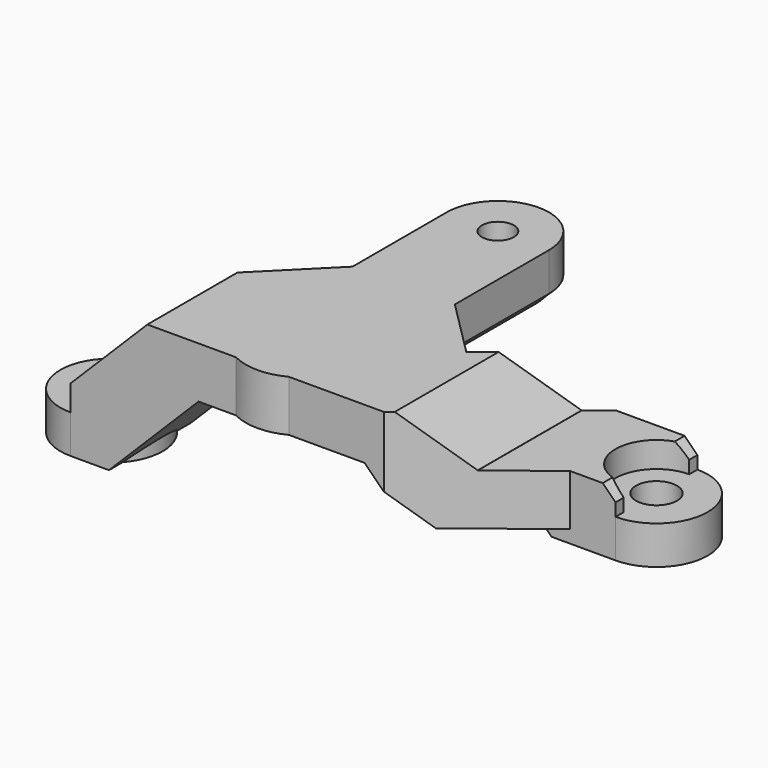
from build123d import *

# Parameters (mm, degrees)
CYLINDER778_R                     = 1.25
CYLINDER778_DEPTH                 = 5
CYLINDER796_R                     = 4
CYLINDER796_DEPTH                 = 4
BOX526_W                          = 10
BOX526_H                          = 10
BOX526_DEPTH                      = 10
CYLINDER028_R                     = 1.6
CYLINDER028_DEPTH                 = 4
CYLINDER027_R                     = 4
CYLINDER027_DEPTH                 = 4
BOX037_W                          = 10
BOX037_H                          = 10
BOX037_DEPTH                      = 10
CYLINDER776_R                     = 1.6
CYLINDER776_DEPTH                 = 10
BOX509_W                          = 6
BOX509_H                          = 8
BOX509_DEPTH                      = 1
CYLINDER026_R                     = 3.2
CYLINDER026_DEPTH                 = 10
BOX035_W                          = 10
BOX035_H                          = 15
BOX035_DEPTH                      = 10
CYLINDER025_R                     = 1.6
CYLINDER025_DEPTH                 = 10
CYLINDER775_R                     = 1.6
CYLINDER775_DEPTH                 = 10
BOX033_W                          = 10
BOX033_H                          = 10
BOX033_DEPTH                      = 8
BOX033_PLACEMENT_ANGLE            = 45
CYLINDER024_R                     = 3.2
CYLINDER024_DEPTH                 = 10
BOX032_W                          = 10
BOX032_H                          = 8
BOX032_DEPTH                      = 11
CHAMFER082_SIZE                   = 7
CHAMFER083_SIZE                   = 6
CYLINDER774_R                     = 3.2
CYLINDER774_DEPTH                 = 2
BOX507_W                          = 8
BOX507_H                          = 27
BOX507_DEPTH                      = 4
BOX029_W                          = 10
BOX029_H                          = 10
BOX029_DEPTH                      = 4
BOX028_W                          = 14
BOX028_H                          = 14
BOX028_DEPTH                      = 4
BOX028_PLACEMENT_ANGLE            = 45
BOX027_W                          = 10
BOX027_H                          = 10
BOX027_DEPTH                      = 4
BOX026_W                          = 10
BOX026_H                          = 10
BOX026_DEPTH                      = 4
BOX024_W                          = 15
BOX024_H                          = 8
BOX024_DEPTH                      = 4
BOX024_PLACEMENT_ANGLE            = -38
BOX025_W                          = 9
BOX025_H                          = 8
BOX025_DEPTH                      = 4
BOX023_W                          = 6
BOX023_H                          = 8
BOX023_DEPTH                      = 4
CYLINDER773_R                     = 4
CYLINDER773_DEPTH                 = 4
CYLINDER772_R                     = 4.5
CYLINDER772_DEPTH                 = 4
BOX508_W                          = 11
BOX508_H                          = 8
BOX508_DEPTH                      = 4
CHAMFER084_SIZE                   = 2
CYLINDER770_R                     = 4
CYLINDER770_DEPTH                 = 3
CHAMFER086_SIZE                   = 3.99
BOX034_W                          = 10
BOX034_H                          = 11
BOX034_DEPTH                      = 10
CHAMFER085_SIZE                   = 3.99
CYLINDER771_R                     = 4
CYLINDER771_DEPTH                 = 3
CHAMFER087_SIZE                   = 1
CHAMFER088_SIZE                   = 0.99
CHAMFER089_SIZE                   = 1
PART_MIRRORING096_PLACEMENT_ANGLE = 180
CHAMFER099_SIZE                   = 1


with BuildPart() as cylinder984:
    # Cylinder778 → Cylinder778 (new body)
    with BuildSketch(Plane(origin=(348, 37, -43), x_dir=(1, 0, 0), z_dir=(0, 0, 1))):
        Circle(CYLINDER778_R)
    extrude(amount=CYLINDER778_DEPTH)


with BuildPart() as cylinder987:
    # Cylinder796 → Cylinder796 (new body)
    with BuildSketch(Plane(origin=(348, 37, -43), x_dir=(1, 0, 0), z_dir=(0, 0, 1))):
        Circle(CYLINDER796_R)
    extrude(amount=CYLINDER796_DEPTH)


with BuildPart() as cube726:
    # Box526 → Box526 (new body)
    with BuildSketch(Plane(origin=(343, 37, -46), x_dir=(1, 0, 0), z_dir=(0, 0, 1))):
        with Locations((5, 5)):
            Rectangle(BOX526_W, BOX526_H)
    extrude(amount=BOX526_DEPTH)


with BuildPart() as cylinder028:
    # Cylinder028 → Cylinder028 (new body)
    with BuildSketch(Plane(origin=(-15, 23, 8), x_dir=(1, 0, 0), z_dir=(0, 0, 1))):
        Circle(CYLINDER028_R)
    extrude(amount=CYLINDER028_DEPTH)


with BuildPart() as cylinder027:
    # Cylinder027 → Cylinder027 (new body)
    with BuildSketch(Plane(origin=(-15, 23, 8), x_dir=(1, 0, 0), z_dir=(0, 0, 1))):
        Circle(CYLINDER027_R)
    extrude(amount=CYLINDER027_DEPTH)


with BuildPart() as cube037:
    # Box037 → Box037 (new body)
    with BuildSketch(Plane(origin=(-19, 23, 3), x_dir=(1, 0, 0), z_dir=(0, 0, 1))):
        with Locations((5, 5)):
            Rectangle(BOX037_W, BOX037_H)
    extrude(amount=BOX037_DEPTH)


with BuildPart() as cylinder983:
    # Cylinder776 → Cylinder776 (new body)
    with BuildSketch(Plane(origin=(-37, 7, 2), x_dir=(1, 0, 0), z_dir=(0, 0, 1))):
        Circle(CYLINDER776_R)
    extrude(amount=CYLINDER776_DEPTH)


with BuildPart() as cube036:
    # Box509 → Box509 (new body)
    with BuildSketch(Plane(origin=(-37, 3, 3), x_dir=(1, 0, 0), z_dir=(0, 0, 1))):
        with Locations((3, 4)):
            Rectangle(BOX509_W, BOX509_H)
    extrude(amount=BOX509_DEPTH)


with BuildPart() as cylinder026:
    # Cylinder026 → Cylinder026 (new body)
    with BuildSketch(Plane(origin=(-37, 7, 6), x_dir=(1, 0, 0), z_dir=(0, 0, 1))):
        Circle(CYLINDER026_R)
    extrude(amount=CYLINDER026_DEPTH)


with BuildPart() as cube035:
    # Box035 → Box035 (new body)
    with BuildSketch(Plane(origin=(-39, -2, 8), x_dir=(1, 0, 0), z_dir=(0, 0, 1))):
        with Locations((5, 7.5)):
            Rectangle(BOX035_W, BOX035_H)
    extrude(amount=BOX035_DEPTH)


with BuildPart() as cylinder025:
    # Cylinder025 → Cylinder025 (new body)
    with BuildSketch(Plane(origin=(-15, 27, 4), x_dir=(1, 0, 0), z_dir=(0, 0, 1))):
        Circle(CYLINDER025_R)
    extrude(amount=CYLINDER025_DEPTH)


with BuildPart() as fusion023:
    # Cylinder775 → Cylinder775 (new body)
    with BuildSketch(Plane.XY):
        Circle(CYLINDER775_R)
    extrude(amount=CYLINDER775_DEPTH)

    # Fusion023: union Cylinder025
    add(cylinder025.part)


with BuildPart() as cube033:
    # Box033 → Box033 (new body)
    with BuildSketch(Plane.XY):
        with Locations((5, 5)):
            Rectangle(BOX033_W, BOX033_H)
    extrude(amount=BOX033_DEPTH)


with BuildPart() as cube033_1:
    # Box033 placement: moved
    add(cube033.part.moved(Location((-10.2, -1, 0))).rotate(Axis((-10.2, -1, 0), (0, 0, 1)), BOX033_PLACEMENT_ANGLE))


with BuildPart() as cylinder024:
    # Cylinder024 → Cylinder024 (new body)
    with BuildSketch(Plane.XY.offset(4)):
        Circle(CYLINDER024_R)
    extrude(amount=CYLINDER024_DEPTH)


with BuildPart() as chamfer083:
    # Box032 → Box032 (new body)
    with BuildSketch(Plane(origin=(-10, -4, 1), x_dir=(1, 0, 0), z_dir=(0, 0, 1))):
        with Locations((5, 4)):
            Rectangle(BOX032_W, BOX032_H)
    extrude(amount=BOX032_DEPTH)

    # Chamfer082
    chamfer082_edges = [chamfer083.edges().sort_by_distance(p)[0] for p in [
        (-10, 0, 1),
    ]]
    chamfer(chamfer082_edges, length=CHAMFER082_SIZE)

    # Chamfer083
    chamfer083_edges = [chamfer083.edges().sort_by_distance(p)[0] for p in [
        (0, 0, 12),
    ]]
    chamfer(chamfer083_edges, length=CHAMFER083_SIZE)


with BuildPart() as cylinder981:
    # Cylinder774 → Cylinder774 (new body)
    with BuildSketch(Plane(origin=(-15, 0, 8), x_dir=(1, 0, 0), z_dir=(0, 0, 1))):
        Circle(CYLINDER774_R)
    extrude(amount=CYLINDER774_DEPTH)


with BuildPart() as cube021:
    # Box507 → Box507 (new body)
    with BuildSketch(Plane(origin=(-19, 0, 8), x_dir=(1, 0, 0), z_dir=(0, 0, 1))):
        with Locations((4, 13.5)):
            Rectangle(BOX507_W, BOX507_H)
    extrude(amount=BOX507_DEPTH)


with BuildPart() as cube029:
    # Box029 → Box029 (new body)
    with BuildSketch(Plane(origin=(-20, -14, 8), x_dir=(1, 0, 0), z_dir=(0, 0, 1))):
        with Locations((5, 5)):
            Rectangle(BOX029_W, BOX029_H)
    extrude(amount=BOX029_DEPTH)


with BuildPart() as cut013:
    # Box028 → Box028 (new body)
    with BuildSketch(Plane.XY):
        with Locations((7, 7)):
            Rectangle(BOX028_W, BOX028_H)
    extrude(amount=BOX028_DEPTH)


with BuildPart() as cut013_1:
    # Box028 placement: moved
    add(cut013.part.moved(Location((-15, -6, 8))).rotate(Axis((-15, -6, 8), (0, 0, 1)), BOX028_PLACEMENT_ANGLE))

    # Cut013: cut Cube029
    add(cube029.part, mode=Mode.SUBTRACT)


with BuildPart() as cube027:
    # Box027 → Box027 (new body)
    with BuildSketch(Plane(origin=(-35, 11, 8), x_dir=(1, 0, 0), z_dir=(0, 0, 1))):
        with Locations((5, 5)):
            Rectangle(BOX027_W, BOX027_H)
    extrude(amount=BOX027_DEPTH)


with BuildPart() as cube026:
    # Box026 → Box026 (new body)
    with BuildSketch(Plane(origin=(-30, -14, 8), x_dir=(1, 0, 0), z_dir=(0, 0, 1))):
        with Locations((5, 5)):
            Rectangle(BOX026_W, BOX026_H)
    extrude(amount=BOX026_DEPTH)


with BuildPart() as fusion507:
    # Fusion507 base: copy of Cube026
    add(cube026.part)

    # Fusion507: union Cube027
    add(cube027.part)


with BuildPart() as cube709:
    # Box024 → Box024 (new body)
    with BuildSketch(Plane.XY):
        with Locations((7.5, 4)):
            Rectangle(BOX024_W, BOX024_H)
    extrude(amount=BOX024_DEPTH)


with BuildPart() as cube709_1:
    # Box024 placement: moved
    add(cube709.part.moved(Location((-36, 5, 8))).rotate(Axis((-36, 5, 8), (0, 0, 1)), BOX024_PLACEMENT_ANGLE))


with BuildPart() as cube025:
    # Box025 → Box025 (new body)
    with BuildSketch(Plane(origin=(-24, -4, 8), x_dir=(1, 0, 0), z_dir=(0, 0, 1))):
        with Locations((4.5, 4)):
            Rectangle(BOX025_W, BOX025_H)
    extrude(amount=BOX025_DEPTH)


with BuildPart() as cube023:
    # Box023 → Box023 (new body)
    with BuildSketch(Plane(origin=(-37, 3, 8), x_dir=(1, 0, 0), z_dir=(0, 0, 1))):
        with Locations((3, 4)):
            Rectangle(BOX023_W, BOX023_H)
    extrude(amount=BOX023_DEPTH)


with BuildPart() as cut881:
    # Fusion017 base: copy of Cube023
    add(cube023.part)

    # Fusion017: union Cube709, Cube025
    add(cube709_1.part)
    add(cube025.part)

    # Cut609: cut Fusion507
    add(fusion507.part, mode=Mode.SUBTRACT)


with BuildPart() as cylinder980:
    # Cylinder773 → Cylinder773 (new body)
    with BuildSketch(Plane(origin=(-15, 27, 8), x_dir=(1, 0, 0), z_dir=(0, 0, 1))):
        Circle(CYLINDER773_R)
    extrude(amount=CYLINDER773_DEPTH)


with BuildPart() as cylinder979:
    # Cylinder772 → Cylinder772 (new body)
    with BuildSketch(Plane(origin=(-15, 0, 8), x_dir=(1, 0, 0), z_dir=(0, 0, 1))):
        Circle(CYLINDER772_R)
    extrude(amount=CYLINDER772_DEPTH)


with BuildPart() as cut016:
    # Box508 → Box508 (new body)
    with BuildSketch(Plane(origin=(-15, -4, 8), x_dir=(1, 0, 0), z_dir=(0, 0, 1))):
        with Locations((5.5, 4)):
            Rectangle(BOX508_W, BOX508_H)
    extrude(amount=BOX508_DEPTH)

    # Fusion508: union Cube021, Cut013, Cut881, Cylinder980, Cylinder979
    add(cube021.part)
    add(cut013_1.part)
    add(cut881.part)
    add(cylinder980.part)
    add(cylinder979.part)

    # Cut014: cut Cylinder981
    add(cylinder981.part, mode=Mode.SUBTRACT)

    # Chamfer084
    chamfer084_edges = [cut016.edges().sort_by_distance(p)[0] for p in [
        (-4, 0, 12),
    ]]
    chamfer(chamfer084_edges, length=CHAMFER084_SIZE)

    # Fusion020: union Chamfer083
    add(chamfer083.part)

    # Cut015: cut Cylinder024
    add(cylinder024.part, mode=Mode.SUBTRACT)

    # Cut016: cut Cube033
    add(cube033_1.part, mode=Mode.SUBTRACT)


with BuildPart() as chamfer086:
    # Cylinder770 → Cylinder770 (new body)
    with BuildSketch(Plane.XY.offset(1)):
        Circle(CYLINDER770_R)
    extrude(amount=CYLINDER770_DEPTH)

    # Fusion022: union Cut016
    add(cut016.part)

    # Cut017: cut Fusion023
    add(fusion023.part, mode=Mode.SUBTRACT)

    # Cut613: cut Cube035
    add(cube035.part, mode=Mode.SUBTRACT)

    # Chamfer086
    chamfer086_edges = [chamfer086.edges().sort_by_distance(p)[0] for p in [
        (-29, 4.607073, 12),
    ]]
    chamfer(chamfer086_edges, length=CHAMFER086_SIZE)


with BuildPart() as cube034:
    # Box034 → Box034 (new body)
    with BuildSketch(Plane(origin=(-23, -4, 0), x_dir=(1, 0, 0), z_dir=(0, 0, 1))):
        with Locations((5, 5.5)):
            Rectangle(BOX034_W, BOX034_H)
    extrude(amount=BOX034_DEPTH)


with BuildPart() as fusion024:
    # Fusion024 base: copy of Cube026
    add(cube026.part)

    # Fusion024: union Cube027
    add(cube027.part)


with BuildPart() as fusion026:
    # Fusion025 base: copy of Cube023
    add(cube023.part)

    # Fusion025: union Cube709, Cube025
    add(cube709_1.part)
    add(cube025.part)

    # Cut611: cut Fusion024
    add(fusion024.part, mode=Mode.SUBTRACT)


with BuildPart() as fusion026_1:
    # Cut611 placement: moved
    add(fusion026.part.moved(Location((0, 0, -4))))

    # Cut612: cut Cube034
    add(cube034.part, mode=Mode.SUBTRACT)

    # Chamfer085
    chamfer085_edges = [fusion026_1.edges().sort_by_distance(p)[0] for p in [
        (-23, 0.497716, 4),
    ]]
    chamfer(chamfer085_edges, length=CHAMFER085_SIZE)

    # Fusion026: union Chamfer086
    add(chamfer086.part)


with BuildPart() as cut024:
    # Cylinder771 → Cylinder771 (new body)
    with BuildSketch(Plane(origin=(-37, 7, 3), x_dir=(1, 0, 0), z_dir=(0, 0, 1))):
        Circle(CYLINDER771_R)
    extrude(amount=CYLINDER771_DEPTH)

    # Fusion027: union Fusion026
    add(fusion026_1.part)

    # Chamfer087
    chamfer087_edges = [cut024.edges().sort_by_distance(p)[0] for p in [
        (-37, 7, 8),
    ]]
    chamfer(chamfer087_edges, length=CHAMFER087_SIZE)

    # Cut614: cut Cylinder026
    add(cylinder026.part, mode=Mode.SUBTRACT)

    # Fusion028: union Cube036
    add(cube036.part)

    # Chamfer088
    chamfer088_edges = [cut024.edges().sort_by_distance(p)[0] for p in [
        (-31, 7, 3),
    ]]
    chamfer(chamfer088_edges, length=CHAMFER088_SIZE)

    # Cut022: cut Cylinder983
    add(cylinder983.part, mode=Mode.SUBTRACT)

    # Chamfer089
    chamfer089_edges = [cut024.edges().sort_by_distance(p)[0] for p in [
        (-28.837748, 9.556381, 4),
        (-24.995, 6.554097, 5.995),
    ]]
    chamfer(chamfer089_edges, length=CHAMFER089_SIZE)

    # Cut023: cut Cube037
    add(cube037.part, mode=Mode.SUBTRACT)

    # Fusion509: union Cylinder027
    add(cylinder027.part)

    # Cut024: cut Cylinder028
    add(cylinder028.part, mode=Mode.SUBTRACT)


with BuildPart() as obj1:
    # Part__Mirroring096: instance of Cut024
    add(cut024.part.mirror(Plane(origin=(0, 0, 0), x_dir=(1, 0, 0), z_dir=(0, 1, 0))))


with BuildPart() as obj1_1:
    # Part__Mirroring096 placement: moved
    add(obj1.part.moved(Location((333, 18, -51))).rotate(Axis((333, 18, -51), (0, 0, 1)), PART_MIRRORING096_PLACEMENT_ANGLE))

    # Cut630: cut Cube726
    add(cube726.part, mode=Mode.SUBTRACT)

    # Fusion526: union Cylinder987
    add(cylinder987.part)

    # Cut631: cut Cylinder984
    add(cylinder984.part, mode=Mode.SUBTRACT)

    # Chamfer099
    chamfer099_edges = [obj1_1.edges().sort_by_distance(p)[0] for p in [
        (352, 32.399495, -43),
        (348, 41, -43),
        (344, 32.399495, -43),
    ]]
    chamfer(chamfer099_edges, length=CHAMFER099_SIZE)


solid = obj1_1.part
